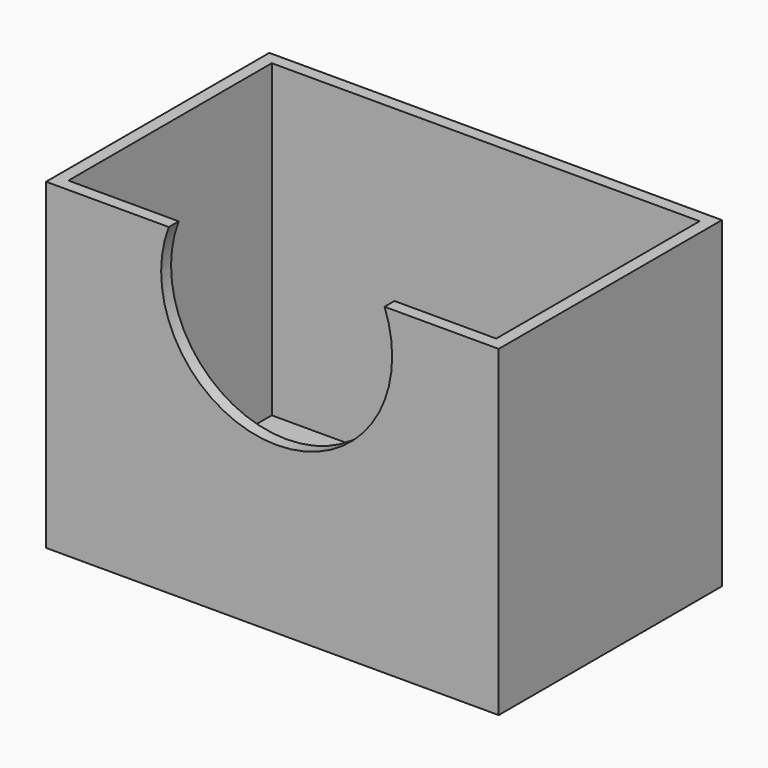
from build123d import *

# Parameters (mm, degrees)
F0_W     = 92.71
F0_H     = 57.15
F1_DEPTH = 66.04
F2_T     = -2.54
F4_DEPTH = 25.4
F6_DEPTH = 25.4


with BuildPart() as f1:
    # F0 (on Top) → F1 (new body)
    with BuildSketch(Plane.XY):
        with Locations((46.355, 28.575)):
            Rectangle(F0_W, F0_H)
    extrude(amount=F1_DEPTH)

    # F2
    f2_openings = [f1.faces().sort_by_distance(p)[0] for p in [
        (46.355, 28.575, 66.04),
    ]]
    offset(amount=F2_T, openings=f2_openings)

    # F3 (on face) → F4 (cut)
    with BuildSketch(Plane.XZ):
        with BuildLine():
            Line((56.342959, 66.04), (36.00914, 66.04))
            ThreePointArc((36.00914, 66.04), (46.17605, 50.051373), (56.342959, 66.04))
        make_face()
    extrude(amount=-F4_DEPTH, mode=Mode.SUBTRACT)

    # F5 (on face) → F6 (cut)
    with BuildSketch(Plane.XZ):
        with BuildLine():
            Line((36.00914, 66.04), (25.135325, 66.04))
            ThreePointArc((25.135325, 66.04), (47.225845, 33.909376), (69.316365, 66.04))
            Line((69.316365, 66.04), (56.342959, 66.04))
            ThreePointArc((56.342959, 66.04), (46.17605, 50.051373), (36.00914, 66.04))
        make_face()
    extrude(amount=-F6_DEPTH, mode=Mode.SUBTRACT)


solid = f1.part
